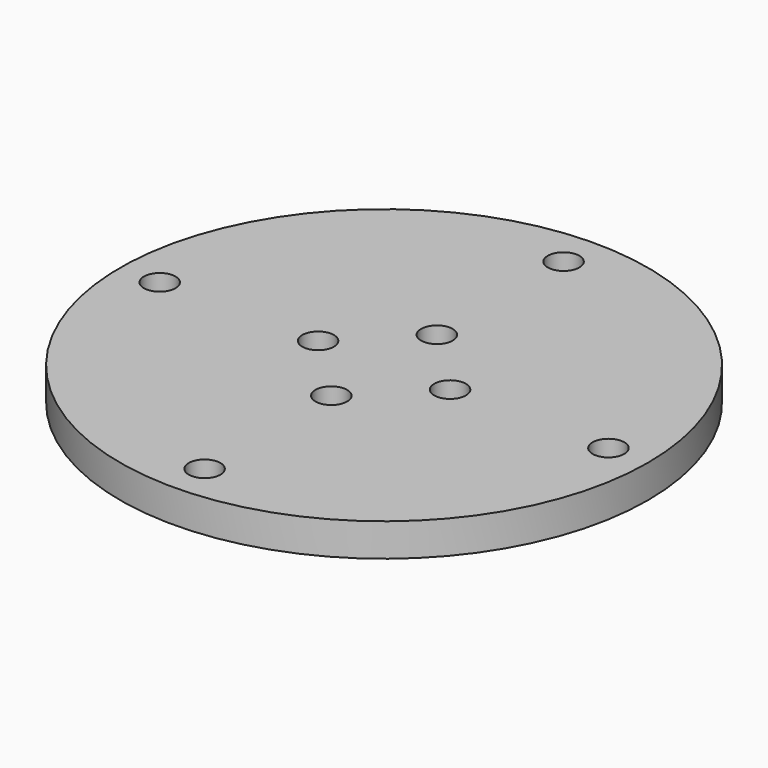
from build123d import *

# Parameters (mm, degrees)
F0_R     = 100
F0_R_2   = 6
F1_DEPTH = 12.5


with BuildPart() as f1:
    # F0 (on Top) → F1 (new body)
    with BuildSketch(Plane.XY):
        Circle(F0_R)
        with Locations((0, -85)):
            Circle(F0_R_2, mode=Mode.SUBTRACT)
        with Locations((0, -25)):
            Circle(F0_R_2, mode=Mode.SUBTRACT)
        with Locations((-85, 0)):
            Circle(F0_R_2, mode=Mode.SUBTRACT)
        with Locations((-25, 0)):
            Circle(F0_R_2, mode=Mode.SUBTRACT)
        with Locations((25, 0)):
            Circle(F0_R_2, mode=Mode.SUBTRACT)
        with Locations((0, 25)):
            Circle(F0_R_2, mode=Mode.SUBTRACT)
        with Locations((85, 0)):
            Circle(F0_R_2, mode=Mode.SUBTRACT)
        with Locations((0, 85)):
            Circle(F0_R_2, mode=Mode.SUBTRACT)
    extrude(amount=F1_DEPTH)


solid = f1.part
